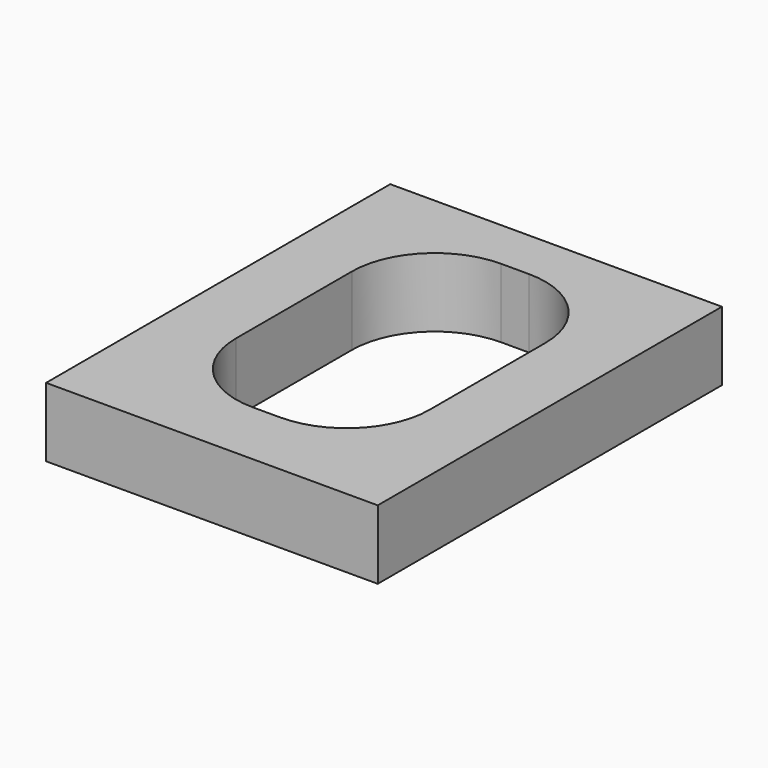
from build123d import *

# Parameters (mm, degrees)
F0_W     = 14
F0_H     = 22.477162
F1_DEPTH = 5
F2_R     = 6


with BuildPart() as f1:
    # F0 (on Top) → F1 (new body)
    with BuildSketch(Plane.XY):
        Polygon((0, 31.128641), (0, 0), (4.980863, 0), (24, 0), (24, 31.128641), align=None)
        with Locations((11.980863, 16.196262)):
            Rectangle(F0_W, F0_H, mode=Mode.SUBTRACT)
    extrude(amount=F1_DEPTH)

    # F2
    f2_edges = [f1.edges().sort_by_distance(p)[0] for p in [
        (4.980863, 27.434843, 2.5),
        (4.980863, 4.957681, 2.5),
        (18.980863, 4.957681, 2.5),
        (18.980863, 27.434843, 2.5),
    ]]
    fillet(f2_edges, radius=F2_R)


solid = f1.part
